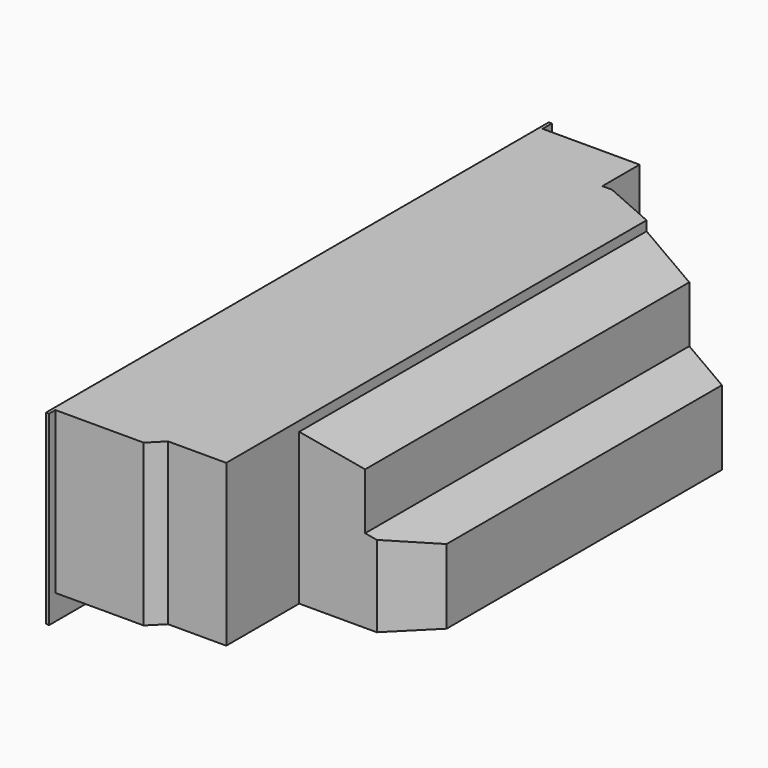
from build123d import *

# Parameters (mm, degrees)
SKETCH006_W     = 162
SKETCH006_H     = 48
PAD005_DEPTH    = 0.8
PAD006_DEPTH    = 157
POCKET001_DEPTH = 41.5


with BuildPart() as part:
    # Sketch006 → Pad005 (new body)
    with BuildSketch(Plane.YZ):
        with Locations((-78, 19)):
            Rectangle(SKETCH006_W, SKETCH006_H)
    extrude(amount=-PAD005_DEPTH)

    # Sketch007 (on DatumPlane) → Pad006 (join)
    with BuildSketch(Plane.ZX):
        Polygon((1.5, 0), (43, 0), (43, 41.25), (40.5, 41.25), (37.502441, 58.25), (23, 58.25), (20.707749, 71.25), (1.5, 71.25), align=None)
    extrude(amount=-PAD006_DEPTH)

    # Sketch008 (on Face5 of Pad006) → Pocket001 (cut)
    with BuildSketch(Plane(origin=(0, 0, 43), x_dir=(0, -1, 0), z_dir=(0, 0, 1))):
        Polygon((0, 25), (12, 25), (12, 27.5), (31.5, 71.75), (0, 71.75), align=None)
        Polygon((157, 22.75), (157, 71.25), (120, 71.25), (130, 61.25), (130, 41.25), (153.5, 41.25), (153.5, 26.25), align=None)
    extrude(amount=-POCKET001_DEPTH, mode=Mode.SUBTRACT)


solid = part.part
